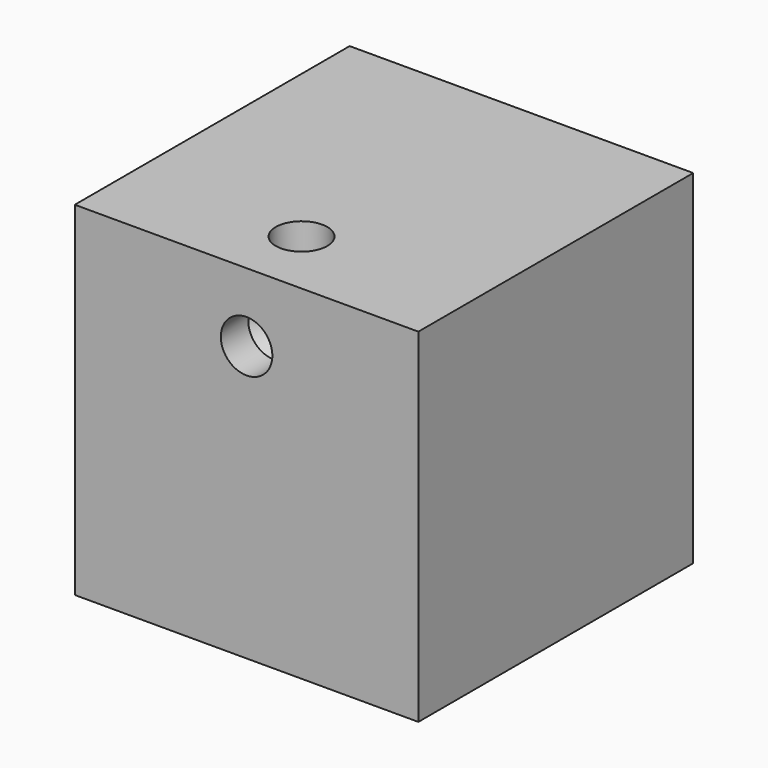
from build123d import *

# Parameters (mm, degrees)
F0_W     = 127
F0_H     = 127
F1_DEPTH = 127
F3_D     = 19.05
F3_DEPTH = 12.7
F3_TIP   = 5.7231973962
F5_D     = 19.05
F5_DEPTH = 12.7
F5_TIP   = 5.7231973962


with BuildPart() as f1:
    # F0 (on Front) → F1 (new body)
    with BuildSketch(Plane.XZ):
        with Locations((-63.5, 63.5)):
            Rectangle(F0_W, F0_H)
    extrude(amount=F1_DEPTH)

    # F3
    with Locations(Plane.XZ.offset(127)):
        with Locations((-63.5, 101.6)):
            Hole(F3_D / 2, depth=F3_DEPTH)
            with Locations((0, 0, -(F3_DEPTH + F3_TIP / 2))):  # 118° drill point
                Cone(0, F3_D / 2, F3_TIP, mode=Mode.SUBTRACT)

    # F5
    with Locations(Plane.XY.offset(127)):
        with Locations((-63.5, -101.6)):
            Hole(F5_D / 2, depth=F5_DEPTH)
            with Locations((0, 0, -(F5_DEPTH + F5_TIP / 2))):  # 118° drill point
                Cone(0, F5_D / 2, F5_TIP, mode=Mode.SUBTRACT)


solid = f1.part
